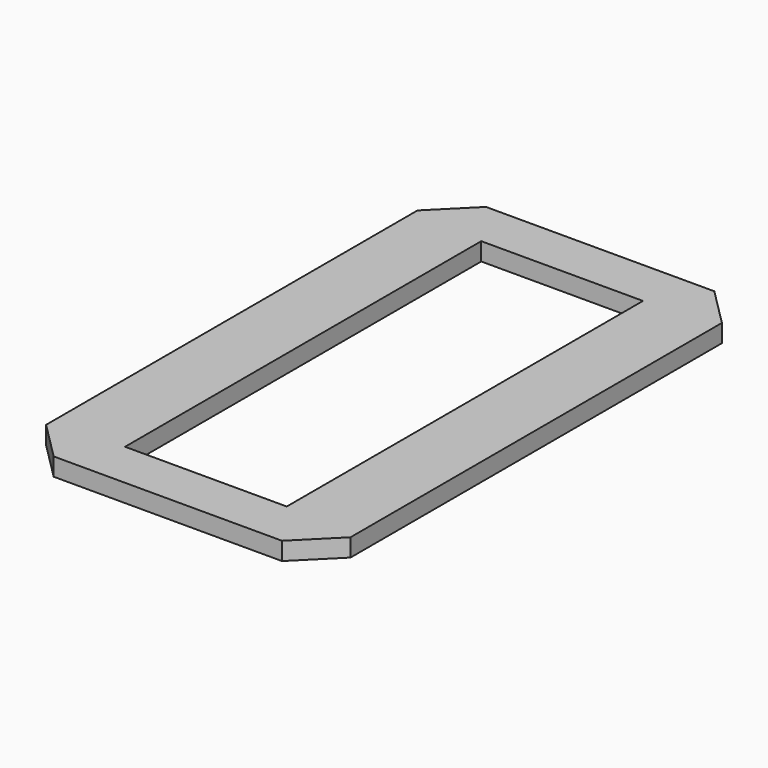
from build123d import *

# Parameters (mm, degrees)
F0_W     = 81.28
F0_H     = 144.272
F1_DEPTH = 4.7752
F2_W     = 43.18
F2_H     = 118.872
F3_DEPTH = 25.4
F4_SIZE  = 10.16


with BuildPart() as f1:
    # F0 (on Top) → F1 (new body)
    with BuildSketch(Plane.XY):
        with Locations((-2.556553, 4.684015)):
            Rectangle(F0_W, F0_H)
    extrude(amount=F1_DEPTH)

    # F2 (on face) → F3 (cut)
    with BuildSketch(Plane.XY.offset(4.7752)):
        with Locations((-2.556553, 4.684015)):
            Rectangle(F2_W, F2_H)
    extrude(amount=-F3_DEPTH, mode=Mode.SUBTRACT)

    # F4
    f4_edges = [f1.edges().sort_by_distance(p)[0] for p in [
        (38.083447, -67.451985, 2.3876),
        (-43.196553, -67.451985, 2.3876),
        (38.083447, 76.820015, 2.3876),
        (-43.196553, 76.820015, 2.3876),
    ]]
    chamfer(f4_edges, length=F4_SIZE)


solid = f1.part
